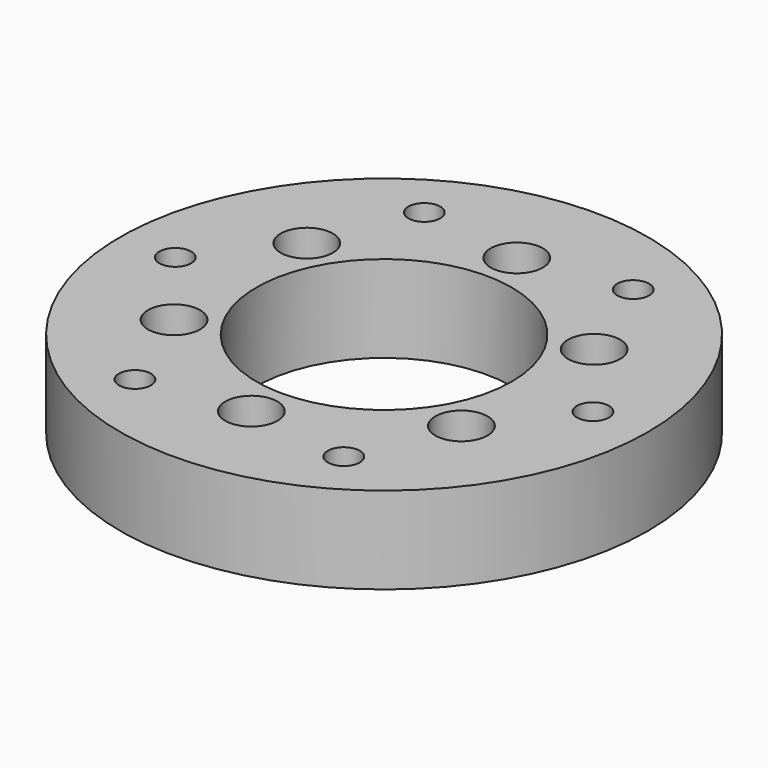
from build123d import *

# Parameters (mm, degrees)
F0_R     = 45.5
F0_R_2   = 2.05
F0_R_3   = 22
F0_R_4   = 2.75
F1_DEPTH = 15
F2_R     = 4.5
F2_R_2   = 2.05
F3_DEPTH = 5.1
F4_DEPTH = 5


with BuildPart() as f1:
    # F0 (on Top) → F1 (new body)
    with BuildSketch(Plane.XY):
        Circle(F0_R)
        Polygon((-22.893044, -28.351915), (-18, -25.526915), (-13.106956, -28.351915), (-13.106956, -34.001915), (-18, -36.826915), (-22.893044, -34.001915), align=None, mode=Mode.SUBTRACT)
        with Locations((-24.768327, -14.3)):
            Circle(F0_R_2, mode=Mode.SUBTRACT)
        with Locations((0, -28.6)):
            Circle(F0_R_2, mode=Mode.SUBTRACT)
        Polygon((13.106956, -34.001915), (13.106956, -28.351915), (18, -25.526915), (22.893044, -28.351915), (22.893044, -34.001915), (18, -36.826915), align=None, mode=Mode.SUBTRACT)
        with Locations((24.768327, -14.3)):
            Circle(F0_R_2, mode=Mode.SUBTRACT)
        Polygon((-36, 5.65), (-31.106956, 2.825), (-31.106956, -2.825), (-36, -5.65), (-40.893044, -2.825), (-40.893044, 2.825), align=None, mode=Mode.SUBTRACT)
        with Locations((-24.768327, 14.3)):
            Circle(F0_R_2, mode=Mode.SUBTRACT)
        Polygon((-13.106956, 34.001915), (-13.106956, 28.351915), (-18, 25.526915), (-22.893044, 28.351915), (-22.893044, 34.001915), (-18, 36.826915), align=None, mode=Mode.SUBTRACT)
        Circle(F0_R_3, mode=Mode.SUBTRACT)
        Polygon((36, -5.65), (31.106956, -2.825), (31.106956, 2.825), (36, 5.65), (40.893044, 2.825), (40.893044, -2.825), align=None, mode=Mode.SUBTRACT)
        with Locations((24.768327, 14.3)):
            Circle(F0_R_2, mode=Mode.SUBTRACT)
        with Locations((0, 28.6)):
            Circle(F0_R_2, mode=Mode.SUBTRACT)
        Polygon((22.893044, 28.351915), (18, 25.526915), (13.106956, 28.351915), (13.106956, 34.001915), (18, 36.826915), (22.893044, 34.001915), align=None, mode=Mode.SUBTRACT)
        Polygon((-31.106956, -2.825), (-31.106956, 2.825), (-36, 5.65), (-40.893044, 2.825), (-40.893044, -2.825), (-36, -5.65), align=None)
        with Locations((-36, 0)):
            Circle(F0_R_4, mode=Mode.SUBTRACT)
        Polygon((-13.106956, -28.351915), (-18, -25.526915), (-22.893044, -28.351915), (-22.893044, -34.001915), (-18, -36.826915), (-13.106956, -34.001915), align=None)
        with Locations((-18, -31.176915)):
            Circle(F0_R_4, mode=Mode.SUBTRACT)
        Polygon((18, -25.526915), (13.106956, -28.351915), (13.106956, -34.001915), (18, -36.826915), (22.893044, -34.001915), (22.893044, -28.351915), align=None)
        with Locations((18, -31.176915)):
            Circle(F0_R_4, mode=Mode.SUBTRACT)
        Polygon((31.106956, 2.825), (31.106956, -2.825), (36, -5.65), (40.893044, -2.825), (40.893044, 2.825), (36, 5.65), align=None)
        with Locations((36, 0)):
            Circle(F0_R_4, mode=Mode.SUBTRACT)
        Polygon((13.106956, 28.351915), (18, 25.526915), (22.893044, 28.351915), (22.893044, 34.001915), (18, 36.826915), (13.106956, 34.001915), align=None)
        with Locations((18, 31.176915)):
            Circle(F0_R_4, mode=Mode.SUBTRACT)
        Polygon((-18, 25.526915), (-13.106956, 28.351915), (-13.106956, 34.001915), (-18, 36.826915), (-22.893044, 34.001915), (-22.893044, 28.351915), align=None)
        with Locations((-18, 31.176915)):
            Circle(F0_R_4, mode=Mode.SUBTRACT)
    extrude(amount=F1_DEPTH)

    # F2 (on face) → F3 (cut)
    with BuildSketch(Plane.XY.offset(15)):
        with Locations((24.768327, 14.3)):
            Circle(F2_R)
        with Locations((24.768327, 14.3)):
            Circle(F2_R_2, mode=Mode.SUBTRACT)
        with Locations((-24.768327, 14.3)):
            Circle(F2_R)
        with Locations((-24.768327, 14.3)):
            Circle(F2_R_2, mode=Mode.SUBTRACT)
        with Locations((0, 28.6)):
            Circle(F2_R)
        with Locations((0, 28.6)):
            Circle(F2_R_2, mode=Mode.SUBTRACT)
        with Locations((-24.768327, -14.3)):
            Circle(F2_R)
        with Locations((-24.768327, -14.3)):
            Circle(F2_R_2, mode=Mode.SUBTRACT)
        with Locations((0, -28.6)):
            Circle(F2_R)
        with Locations((0, -28.6)):
            Circle(F2_R_2, mode=Mode.SUBTRACT)
        with Locations((24.768327, -14.3)):
            Circle(F2_R)
        with Locations((24.768327, -14.3)):
            Circle(F2_R_2, mode=Mode.SUBTRACT)
    extrude(amount=-F3_DEPTH, mode=Mode.SUBTRACT)

    # F0 (on Top) → F4 (cut)
    with BuildSketch(Plane.XY):
        Polygon((-13.106956, -28.351915), (-18, -25.526915), (-22.893044, -28.351915), (-22.893044, -34.001915), (-18, -36.826915), (-13.106956, -34.001915), align=None)
        with Locations((-18, -31.176915)):
            Circle(F0_R_4, mode=Mode.SUBTRACT)
        Polygon((18, -25.526915), (13.106956, -28.351915), (13.106956, -34.001915), (18, -36.826915), (22.893044, -34.001915), (22.893044, -28.351915), align=None)
        with Locations((18, -31.176915)):
            Circle(F0_R_4, mode=Mode.SUBTRACT)
        Polygon((31.106956, 2.825), (31.106956, -2.825), (36, -5.65), (40.893044, -2.825), (40.893044, 2.825), (36, 5.65), align=None)
        with Locations((36, 0)):
            Circle(F0_R_4, mode=Mode.SUBTRACT)
        Polygon((13.106956, 28.351915), (18, 25.526915), (22.893044, 28.351915), (22.893044, 34.001915), (18, 36.826915), (13.106956, 34.001915), align=None)
        with Locations((18, 31.176915)):
            Circle(F0_R_4, mode=Mode.SUBTRACT)
        Polygon((-18, 25.526915), (-13.106956, 28.351915), (-13.106956, 34.001915), (-18, 36.826915), (-22.893044, 34.001915), (-22.893044, 28.351915), align=None)
        with Locations((-18, 31.176915)):
            Circle(F0_R_4, mode=Mode.SUBTRACT)
        Polygon((-31.106956, -2.825), (-31.106956, 2.825), (-36, 5.65), (-40.893044, 2.825), (-40.893044, -2.825), (-36, -5.65), align=None)
        with Locations((-36, 0)):
            Circle(F0_R_4, mode=Mode.SUBTRACT)
    extrude(amount=F4_DEPTH, mode=Mode.SUBTRACT)


solid = f1.part
